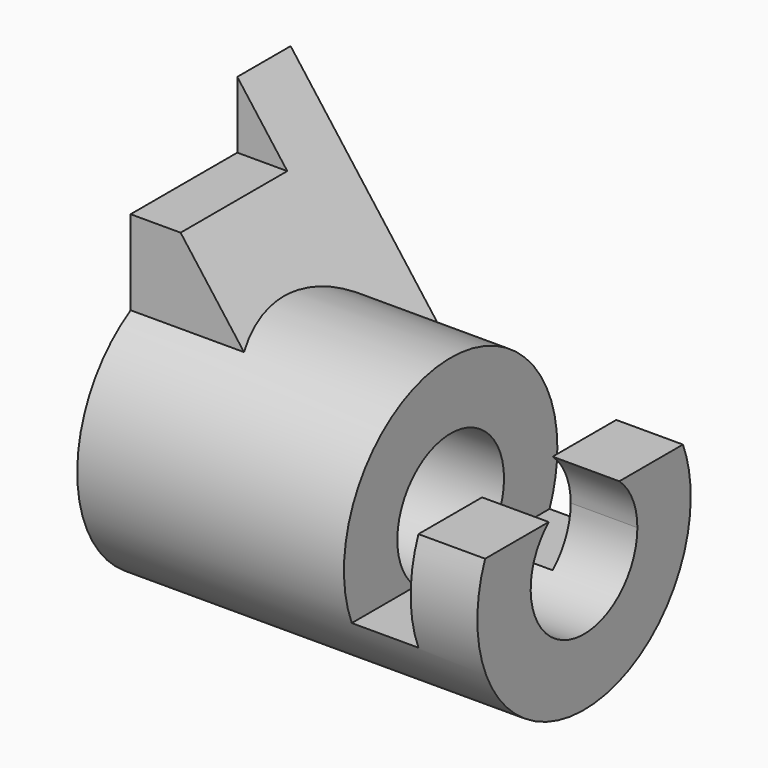
from build123d import *

# Parameters (mm, degrees)
F0_R          = 25.4
F0_R_2        = 12.7
F1_DEPTH      = 76.2
F3_DEPTH      = 25.401
F3_DEPTH_BACK = 25.4
F5_DEPTH      = 25.4
F5_DEPTH_BACK = 12.7
F7_DEPTH      = 25.4
F7_DEPTH_BACK = 12.7
F8_R          = 12.7
F9_DEPTH      = 76.201


with BuildPart() as f1:
    # F0 (on Right) → F1 (new body)
    with BuildSketch(Plane.YZ):
        Circle(F0_R)
        Circle(F0_R_2, mode=Mode.SUBTRACT)
    extrude(amount=F1_DEPTH)

    # F2 (on Front) → F3 (cut, two sides)
    with BuildSketch(Plane.XZ) as f3_sk:
        Polygon((76.2, 25.4), (50.8, 25.4), (50.8, -9.525), (63.5, -9.525), (63.5, 9.525), (76.2, 9.525), align=None)
    extrude(amount=-F3_DEPTH, mode=Mode.SUBTRACT)
    extrude(f3_sk.sketch, amount=F3_DEPTH_BACK, mode=Mode.SUBTRACT)

    # F4 (on Front) → F5 (join, two sides)
    with BuildSketch(Plane.XZ) as f5_sk:
        Polygon((0, 50.8), (0, 0), (38.1, 0), align=None)
    extrude(amount=-F5_DEPTH)
    extrude(f5_sk.sketch, amount=F5_DEPTH_BACK)

    # F6 (on Front) → F7 (cut, two sides)
    with BuildSketch(Plane.XZ) as f7_sk:
        Polygon((0, 50.8), (0, 38.1), (9.525, 38.1), align=None)
    extrude(amount=F7_DEPTH, mode=Mode.SUBTRACT)
    extrude(f7_sk.sketch, amount=-F7_DEPTH_BACK, mode=Mode.SUBTRACT)

    # F8 (on Right) → F9 (cut, through all)
    with BuildSketch(Plane.YZ):
        Circle(F8_R)
    extrude(amount=F9_DEPTH, mode=Mode.SUBTRACT)


solid = f1.part
